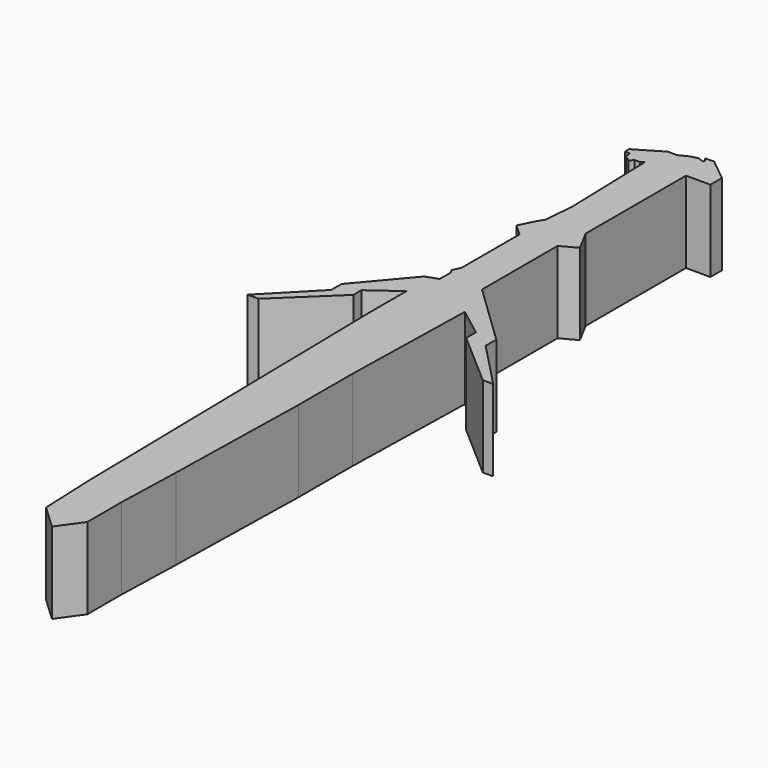
from build123d import *

# Parameters (mm, degrees)
F1_DEPTH = 12.7


with BuildPart() as f1:
    # F0 (on Top) → F1 (new body)
    with BuildSketch(Plane.XY):
        Polygon((8.4674097598, 56.3226677477), (4.9993731081, 59.1430924833), (3.5796526354, 59.105347842), (4.0142790642, 58.5837887803), (3.9040301926, 58.2936815917), (3.0076738913, 58.6343221366), (1.81281392, 58.3214089274), (0.4375161952, 57.63842538), (0, 57.63842538), (-1.0647438467, 57.63842538), (-3.7269797176, 56.0346469283), (-5.1362086087, 55.2338398993), (-5.1362086087, 54.3800778687), (-4.324192436, 54.3800778687), (-4.324192436, 53.5804792602), (-3.2959955279, 52.7911260724), (-2.8494205326, 53.3728264272), (-1.9739218988, 53.3728264272), (-1.4901272083, 53.7990161207), (-1.4361526119, 51.9273541868), (-1.0647438467, 39.0481166542), (-1.4684260823, 34.2683680356), (-2.1647270769, 33.138576895), (-3.2786394004, 30.8706443757), (-1.5108085936, 29.2773563415), (-1.5108085936, 18.0350095034), (-2.0992092323, 16.6827999055), (-1.7486788565, 16.2351131439), (-1.7486788565, 14.0109397471), (-3.6478310358, 13.3241694421), (-10.2832335979, 5.4679820314), (-10.2832335979, 3.4643800464), (-17.465846613, -3.8865045644), (-15.7476849854, -3.8865045644), (-7.3585305363, 4.1265715845), (-7.3585305363, 5.7251015678), (-2.9132614987, 8.9498246089), (-2.9132614987, 2.0007098744), (-2.5243267883, -19.7883937508), (-1.9065504894, -54.3977804482), (-1.5426465543, -63.1300359964), (2.1701699588, -66.6309818625), (4.7807293013, -62.9719868302), (4.7807293013, -56.274600327), (5.0807259977, -46.0444651544), (5.579222925, -22.7906536311), (5.579222925, -12.2377127409), (6.0616787523, 9.1150859371), (10.5058038607, 5.7430174202), (10.5058038607, 3.8492596457), (19.0487038344, -3.5993366037), (20.6745713949, -3.5993366037), (13.642212376, 3.7180308718), (13.642212376, 5.8058663271), (4.0112765072, 15.0460293517), (4.0112765072, 29.7966579315), (6.4584943466, 31.0973599553), (4.653096199, 34.4941429794), (4.653096199, 50.1591525972), (4.653096199, 54.0697947145), (8.4674097598, 54.0697947145), align=None)
    extrude(amount=F1_DEPTH)


solid = f1.part
